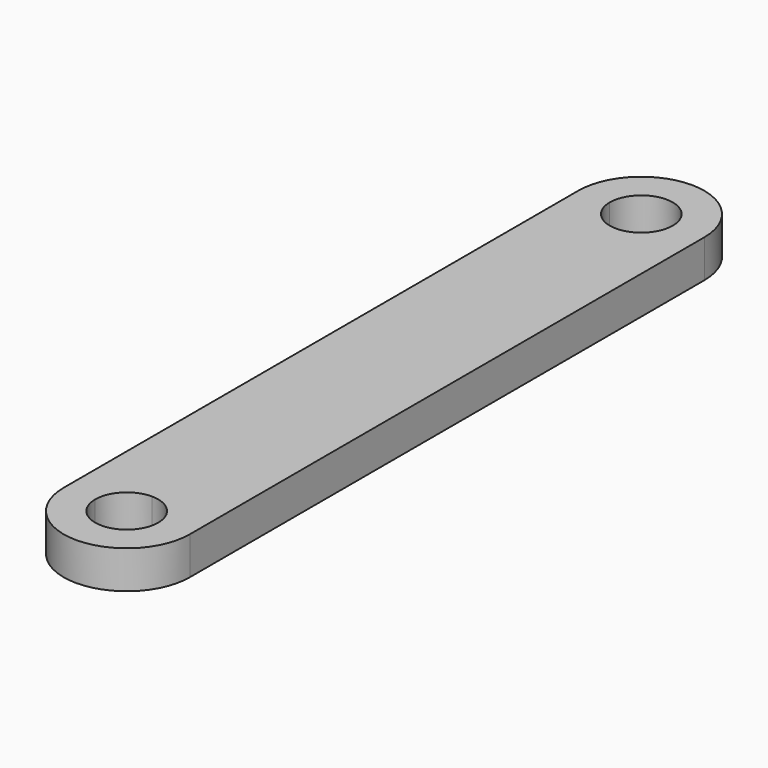
from build123d import *

# Parameters (mm, degrees)
F1_DEPTH = 3.81


with BuildPart() as f1:
    # F0 (on Top) → F1 (new body)
    with BuildSketch(Plane.XY):
        with BuildLine():
            Line((0, 0), (0, 29.21))
            ThreePointArc((0, 29.21), (-2.245064, 30.139936), (-3.175, 32.385))
            Line((-3.175, 32.385), (-6.35, 32.385))
            Line((-6.35, 32.385), (-6.35, -32.385))
            Line((-6.35, -32.385), (-3.175, -32.385))
            ThreePointArc((-3.175, -32.385), (-2.245064, -30.139936), (0, -29.21))
            Line((0, -29.21), (0, 0))
        make_face()
        with BuildLine():
            ThreePointArc((3.175, 32.385), (2.245064, 30.139936), (0, 29.21))
            Line((0, 29.21), (0, 0))
            Line((0, 0), (0, -29.21))
            ThreePointArc((0, -29.21), (2.245064, -30.139936), (3.175, -32.385))
            Line((3.175, -32.385), (6.35, -32.385))
            Line((6.35, -32.385), (6.35, 32.385))
            Line((6.35, 32.385), (3.175, 32.385))
        make_face()
        with BuildLine():
            ThreePointArc((-3.175, 32.385), (0, 35.56), (3.175, 32.385))
            Line((3.175, 32.385), (6.35, 32.385))
            ThreePointArc((6.35, 32.385), (0, 38.735), (-6.35, 32.385))
            Line((-6.35, 32.385), (-3.175, 32.385))
        make_face()
        with BuildLine():
            ThreePointArc((-6.35, -32.385), (0, -38.735), (6.35, -32.385))
            Line((6.35, -32.385), (3.175, -32.385))
            ThreePointArc((3.175, -32.385), (0, -35.56), (-3.175, -32.385))
            Line((-3.175, -32.385), (-6.35, -32.385))
        make_face()
    extrude(amount=F1_DEPTH)


solid = f1.part
